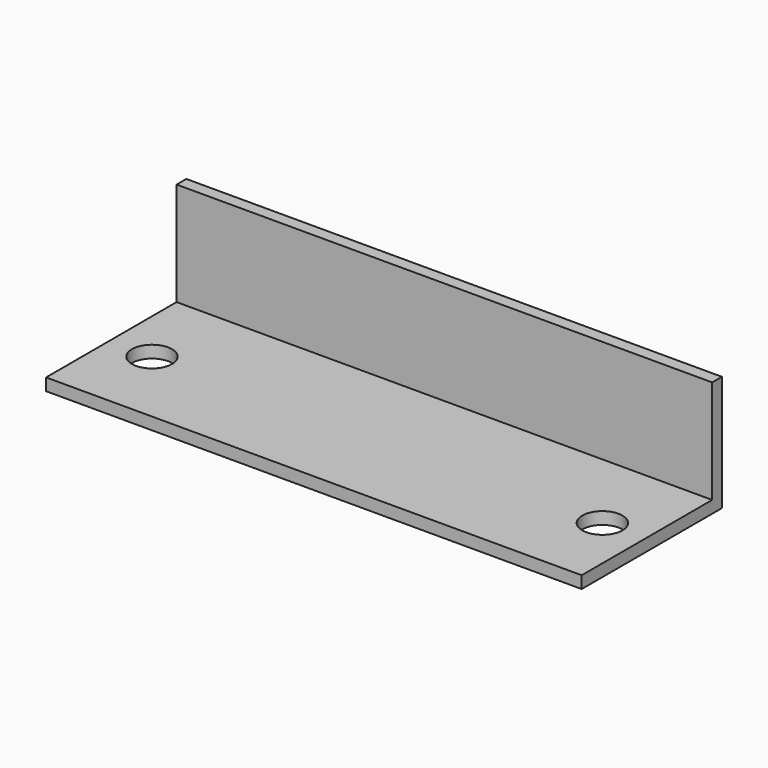
from build123d import *

# Parameters (mm, degrees)
F0_W     = 44
F0_H     = 14.4
F1_DEPTH = 9.5
F2_W     = 13.4
F2_H     = 8.5
F3_DEPTH = 44
F5_D     = 3.3


with BuildPart() as f1:
    # F0 (on Top) → F1 (new body)
    with BuildSketch(Plane.XY):
        with Locations((1.3719686568, -36.0766266167)):
            Rectangle(F0_W, F0_H)
    extrude(amount=F1_DEPTH)

    # F2 (on face) → F3 (cut)
    with BuildSketch(Plane.YZ.offset(23.3719686568)):
        with Locations((-36.5766266167, 5.25)):
            Rectangle(F2_W, F2_H)
    extrude(amount=-F3_DEPTH, mode=Mode.SUBTRACT)

    # F5 (through all)
    with Locations(Plane.XY.offset(1)):
        with Locations((-17.1280313432, -36.7766266167), (19.8719686568, -36.7766266167)):
            Hole(F5_D / 2)


solid = f1.part
